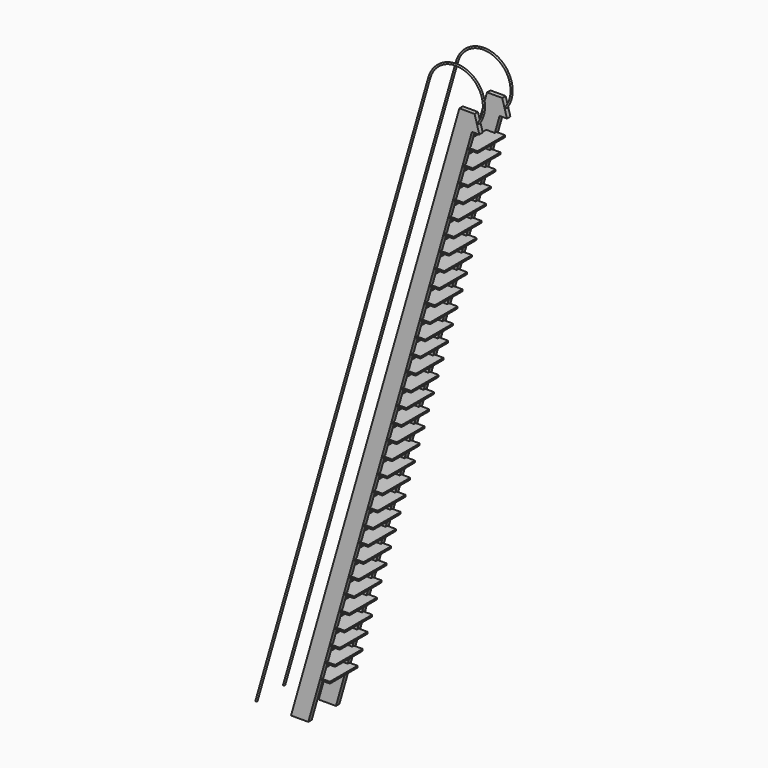
from build123d import *

# Parameters (mm, degrees)
F4_R      = 1
F7_W      = 20
F7_H      = 5
F10_W     = 20
F10_H     = 2
F11_DEPTH = 40


with BuildPart() as f5:
    # F5: sweep along a path in F2
    with BuildLine(Plane.XZ.offset(-20)) as f5_path:
        Line((-100, -350), (100, 350))
        ThreePointArc((100, 350), (145.0637044824, 370.1498783397), (157.1437624664, 322.2872910936))
    # F4 (on plane+point) → F5 (sweep)
    with BuildSketch(Plane.XY.offset(-350)):
        with Locations((-100, 20)):
            Circle(F4_R)
    sweep(path=f5_path.line)


with BuildPart() as f8:
    # F8: sweep along a path in F6
    with BuildLine(Plane.XZ.offset(-20)) as f8_path:
        Line((-47.9992150196, -350), (144.08286815, 322.2872910936))
        Line((144.08286815, 322.2872910936), (157.1437624664, 322.2872910936))
    # F7 (on plane+point) → F8 (sweep)
    with BuildSketch(Plane.XY.offset(-350)):
        with Locations((-47.9992150196, 20)):
            Rectangle(F7_W, F7_H)
    sweep(path=f8_path.line, transition=Transition.RIGHT)


with BuildPart() as f9_1:
    # F9: instance of F5
    add(f5.part.mirror(Plane.XZ))


with BuildPart() as f9_2:
    # F9: instance of F8
    add(f8.part.mirror(Plane.XZ))


with BuildPart() as f11:
    # F10 (on offset) → F11 (new body)
    with BuildSketch(Plane.XZ.offset(-20)):
        with Locations((145.8412343131, 292.4415726644)):
            Rectangle(F10_W, F10_H)
    extrude(amount=F11_DEPTH)


with BuildPart() as f11b:
    # F10 (on offset) → F11, piece 2 (new body)
    with BuildSketch(Plane.XZ.offset(-20)):
        with Locations((140.3468117551, 273.2110937116)):
            Rectangle(F10_W, F10_H)
    extrude(amount=F11_DEPTH)


with BuildPart() as f11c:
    # F10 (on offset) → F11, piece 3 (new body)
    with BuildSketch(Plane.XZ.offset(-20)):
        with Locations((134.8523891972, 253.9806147588)):
            Rectangle(F10_W, F10_H)
    extrude(amount=F11_DEPTH)


with BuildPart() as f11d:
    # F10 (on offset) → F11, piece 4 (new body)
    with BuildSketch(Plane.XZ.offset(-20)):
        with Locations((129.3579666392, 234.750135806)):
            Rectangle(F10_W, F10_H)
    extrude(amount=F11_DEPTH)


with BuildPart() as f11e:
    # F10 (on offset) → F11, piece 5 (new body)
    with BuildSketch(Plane.XZ.offset(-20)):
        with Locations((123.8635440813, 215.5196568531)):
            Rectangle(F10_W, F10_H)
    extrude(amount=F11_DEPTH)


with BuildPart() as f11f:
    # F10 (on offset) → F11, piece 6 (new body)
    with BuildSketch(Plane.XZ.offset(-20)):
        with Locations((118.3691215233, 196.2891779003)):
            Rectangle(F10_W, F10_H)
    extrude(amount=F11_DEPTH)


with BuildPart() as f11g:
    # F10 (on offset) → F11, piece 7 (new body)
    with BuildSketch(Plane.XZ.offset(-20)):
        with Locations((112.8746989654, 177.0586989475)):
            Rectangle(F10_W, F10_H)
    extrude(amount=F11_DEPTH)


with BuildPart() as f11h:
    # F10 (on offset) → F11, piece 8 (new body)
    with BuildSketch(Plane.XZ.offset(-20)):
        with Locations((107.3802764075, 157.8282199947)):
            Rectangle(F10_W, F10_H)
    extrude(amount=F11_DEPTH)


with BuildPart() as f11i:
    # F10 (on offset) → F11, piece 9 (new body)
    with BuildSketch(Plane.XZ.offset(-20)):
        with Locations((101.8858538495, 138.5977410419)):
            Rectangle(F10_W, F10_H)
    extrude(amount=F11_DEPTH)


with BuildPart() as f11j:
    # F10 (on offset) → F11, piece 10 (new body)
    with BuildSketch(Plane.XZ.offset(-20)):
        with Locations((96.3914312916, 119.3672620891)):
            Rectangle(F10_W, F10_H)
    extrude(amount=F11_DEPTH)


with BuildPart() as f11k:
    # F10 (on offset) → F11, piece 11 (new body)
    with BuildSketch(Plane.XZ.offset(-20)):
        with Locations((90.8970087336, 100.1367831362)):
            Rectangle(F10_W, F10_H)
    extrude(amount=F11_DEPTH)


with BuildPart() as f11l:
    # F10 (on offset) → F11, piece 12 (new body)
    with BuildSketch(Plane.XZ.offset(-20)):
        with Locations((85.4025861757, 80.9063041834)):
            Rectangle(F10_W, F10_H)
    extrude(amount=F11_DEPTH)


with BuildPart() as f11m:
    # F10 (on offset) → F11, piece 13 (new body)
    with BuildSketch(Plane.XZ.offset(-20)):
        with Locations((79.9081636177, 61.6758252306)):
            Rectangle(F10_W, F10_H)
    extrude(amount=F11_DEPTH)


with BuildPart() as f11n:
    # F10 (on offset) → F11, piece 14 (new body)
    with BuildSketch(Plane.XZ.offset(-20)):
        with Locations((74.4137410598, 42.4453462778)):
            Rectangle(F10_W, F10_H)
    extrude(amount=F11_DEPTH)


with BuildPart() as f11o:
    # F10 (on offset) → F11, piece 15 (new body)
    with BuildSketch(Plane.XZ.offset(-20)):
        with Locations((68.9193185018, 23.214867325)):
            Rectangle(F10_W, F10_H)
    extrude(amount=F11_DEPTH)


with BuildPart() as f11p:
    # F10 (on offset) → F11, piece 16 (new body)
    with BuildSketch(Plane.XZ.offset(-20)):
        with Locations((63.4248959439, 3.9843883722)):
            Rectangle(F10_W, F10_H)
    extrude(amount=F11_DEPTH)


with BuildPart() as f11q:
    # F10 (on offset) → F11, piece 17 (new body)
    with BuildSketch(Plane.XZ.offset(-20)):
        with Locations((57.9304733859, -15.2460905807)):
            Rectangle(F10_W, F10_H)
    extrude(amount=F11_DEPTH)


with BuildPart() as f11r:
    # F10 (on offset) → F11, piece 18 (new body)
    with BuildSketch(Plane.XZ.offset(-20)):
        with Locations((52.436050828, -34.4765695335)):
            Rectangle(F10_W, F10_H)
    extrude(amount=F11_DEPTH)


with BuildPart() as f11s:
    # F10 (on offset) → F11, piece 19 (new body)
    with BuildSketch(Plane.XZ.offset(-20)):
        with Locations((46.94162827, -53.7070484863)):
            Rectangle(F10_W, F10_H)
    extrude(amount=F11_DEPTH)


with BuildPart() as f11t:
    # F10 (on offset) → F11, piece 20 (new body)
    with BuildSketch(Plane.XZ.offset(-20)):
        with Locations((41.4472057121, -72.9375274391)):
            Rectangle(F10_W, F10_H)
    extrude(amount=F11_DEPTH)


with BuildPart() as f11u:
    # F10 (on offset) → F11, piece 21 (new body)
    with BuildSketch(Plane.XZ.offset(-20)):
        with Locations((35.9527831541, -92.1680063919)):
            Rectangle(F10_W, F10_H)
    extrude(amount=F11_DEPTH)


with BuildPart() as f11v:
    # F10 (on offset) → F11, piece 22 (new body)
    with BuildSketch(Plane.XZ.offset(-20)):
        with Locations((30.4583605962, -111.3984853447)):
            Rectangle(F10_W, F10_H)
    extrude(amount=F11_DEPTH)


with BuildPart() as f11w:
    # F10 (on offset) → F11, piece 23 (new body)
    with BuildSketch(Plane.XZ.offset(-20)):
        with Locations((24.9639380382, -130.6289642976)):
            Rectangle(F10_W, F10_H)
    extrude(amount=F11_DEPTH)


with BuildPart() as f11x:
    # F10 (on offset) → F11, piece 24 (new body)
    with BuildSketch(Plane.XZ.offset(-20)):
        with Locations((19.4695154803, -149.8594432504)):
            Rectangle(F10_W, F10_H)
    extrude(amount=F11_DEPTH)


with BuildPart() as f11y:
    # F10 (on offset) → F11, piece 25 (new body)
    with BuildSketch(Plane.XZ.offset(-20)):
        with Locations((13.9750929223, -169.0899222032)):
            Rectangle(F10_W, F10_H)
    extrude(amount=F11_DEPTH)


with BuildPart() as f11z:
    # F10 (on offset) → F11, piece 26 (new body)
    with BuildSketch(Plane.XZ.offset(-20)):
        with Locations((8.4806703644, -188.320401156)):
            Rectangle(F10_W, F10_H)
    extrude(amount=F11_DEPTH)


with BuildPart() as f11ba:
    # F10 (on offset) → F11, piece 27 (new body)
    with BuildSketch(Plane.XZ.offset(-20)):
        with Locations((2.9862478065, -207.5508801088)):
            Rectangle(F10_W, F10_H)
    extrude(amount=F11_DEPTH)


with BuildPart() as f11bb:
    # F10 (on offset) → F11, piece 28 (new body)
    with BuildSketch(Plane.XZ.offset(-20)):
        with Locations((-2.5081747515, -226.7813590616)):
            Rectangle(F10_W, F10_H)
    extrude(amount=F11_DEPTH)


with BuildPart() as f11bc:
    # F10 (on offset) → F11, piece 29 (new body)
    with BuildSketch(Plane.XZ.offset(-20)):
        with Locations((-8.0025973094, -246.0118380145)):
            Rectangle(F10_W, F10_H)
    extrude(amount=F11_DEPTH)


with BuildPart() as f11bd:
    # F10 (on offset) → F11, piece 30 (new body)
    with BuildSketch(Plane.XZ.offset(-20)):
        with Locations((-13.4970198674, -265.2423169673)):
            Rectangle(F10_W, F10_H)
    extrude(amount=F11_DEPTH)


with BuildPart() as f11be:
    # F10 (on offset) → F11, piece 31 (new body)
    with BuildSketch(Plane.XZ.offset(-20)):
        with Locations((-18.9914424253, -284.4727959201)):
            Rectangle(F10_W, F10_H)
    extrude(amount=F11_DEPTH)


with BuildPart() as f11bf:
    # F10 (on offset) → F11, piece 32 (new body)
    with BuildSketch(Plane.XZ.offset(-20)):
        with Locations((-25.0120931117, -303.5450733224)):
            Rectangle(F10_W, F10_H)
    extrude(amount=F11_DEPTH)


solid = Compound([f5.part, f8.part, f9_1.part, f9_2.part, f11.part, f11b.part, f11c.part, f11d.part, f11e.part, f11f.part, f11g.part, f11h.part, f11i.part, f11j.part, f11k.part, f11l.part, f11m.part, f11n.part, f11o.part, f11p.part, f11q.part, f11r.part, f11s.part, f11t.part, f11u.part, f11v.part, f11w.part, f11x.part, f11y.part, f11z.part, f11ba.part, f11bb.part, f11bc.part, f11bd.part, f11be.part, f11bf.part])
